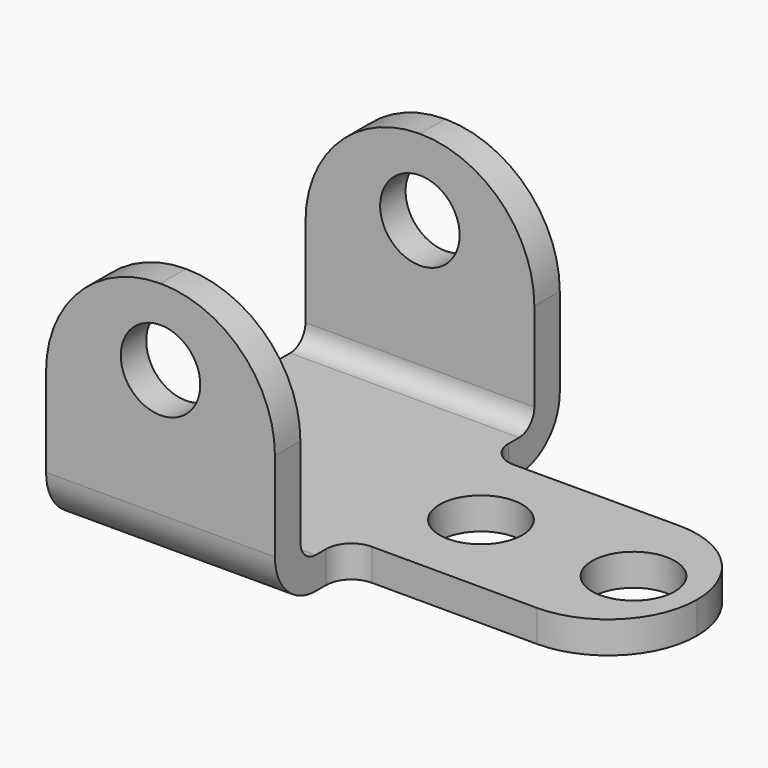
from build123d import *

# Parameters (mm, degrees)
F1_DEPTH = 127
F3_DEPTH = 88.901
F5_DEPTH = 63.501
F6_R     = 9.92251
F7_DEPTH = 88.901
F8_R     = 10.3251
F9_DEPTH = 25.4


with BuildPart() as f1:
    # F0 (on Right) → F1 (new body)
    with BuildSketch(Plane.YZ):
        with BuildLine():
            Line((-76.2, 0), (-12.7, 0))
            ThreePointArc((-12.7, 0), (-3.719744, 3.719744), (0, 12.7))
            Line((0, 12.7), (0, 63.5))
            Line((0, 63.5), (-7.9375, 63.5))
            Line((-7.9375, 63.5), (-7.9375, 12.7))
            ThreePointArc((-7.9375, 12.7), (-9.332404, 9.332404), (-12.7, 7.9375))
            Line((-12.7, 7.9375), (-76.2, 7.9375))
            ThreePointArc((-76.2, 7.9375), (-79.567596, 9.332404), (-80.9625, 12.7))
            Line((-80.9625, 12.7), (-80.9625, 63.5))
            Line((-80.9625, 63.5), (-88.9, 63.5))
            Line((-88.9, 63.5), (-88.9, 12.7))
            ThreePointArc((-88.9, 12.7), (-85.180256, 3.719744), (-76.2, 0))
        make_face()
    extrude(amount=F1_DEPTH)

    # F2 (on face) → F3 (cut, through all)
    with BuildSketch(Plane.XZ.offset(88.9)):
        with BuildLine():
            Line((0, 63.5), (0, 34.925))
            ThreePointArc((0, 34.925), (8.369424, 55.130576), (28.575, 63.5))
            Line((28.575, 63.5), (0, 63.5))
        make_face()
        with BuildLine():
            ThreePointArc((28.575, 63.5), (48.780576, 55.130576), (57.15, 34.925))
            Line((57.15, 34.925), (57.15, 63.5))
            Line((57.15, 63.5), (28.575, 63.5))
        make_face()
    extrude(amount=-F3_DEPTH, mode=Mode.SUBTRACT)

    # F4 (on face) → F5 (cut, through all)
    with BuildSketch(Plane.XY.offset(63.5)):
        with BuildLine():
            Line((127, 0), (57.15, 0))
            Line((57.15, 0), (57.15, -15.945885))
            ThreePointArc((57.15, -15.945885), (59.01373, -20.439868), (63.510907, -22.295876))
            Line((63.510907, -22.295876), (104.775, -22.225))
            ThreePointArc((104.775, -22.225), (120.490448, -28.734552), (127, -44.45))
            Line((127, -44.45), (127, 0))
        make_face()
        with BuildLine():
            Line((127, -88.9), (127, -44.45))
            ThreePointArc((127, -44.45), (120.490448, -60.165448), (104.775, -66.675))
            Line((104.775, -66.675), (63.510907, -66.604124))
            ThreePointArc((63.510907, -66.604124), (59.01373, -68.460132), (57.15, -72.954115))
            Line((57.15, -72.954115), (57.15, -88.9))
            Line((57.15, -88.9), (127, -88.9))
        make_face()
    extrude(amount=-F5_DEPTH, mode=Mode.SUBTRACT)

    # F6 (on face) → F7 (cut, through all)
    with BuildSketch(Plane.XZ.offset(88.9)):
        with Locations((28.575, 44.45)):
            Circle(F6_R)
    extrude(amount=-F7_DEPTH, mode=Mode.SUBTRACT)

    # F8 (on face) → F9 (cut)
    with BuildSketch(Plane.XY.offset(7.9375)):
        with Locations((73.025, -44.45)):
            Circle(F8_R)
        with Locations((111.125, -44.45)):
            Circle(F8_R)
    extrude(amount=-F9_DEPTH, mode=Mode.SUBTRACT)


solid = f1.part
